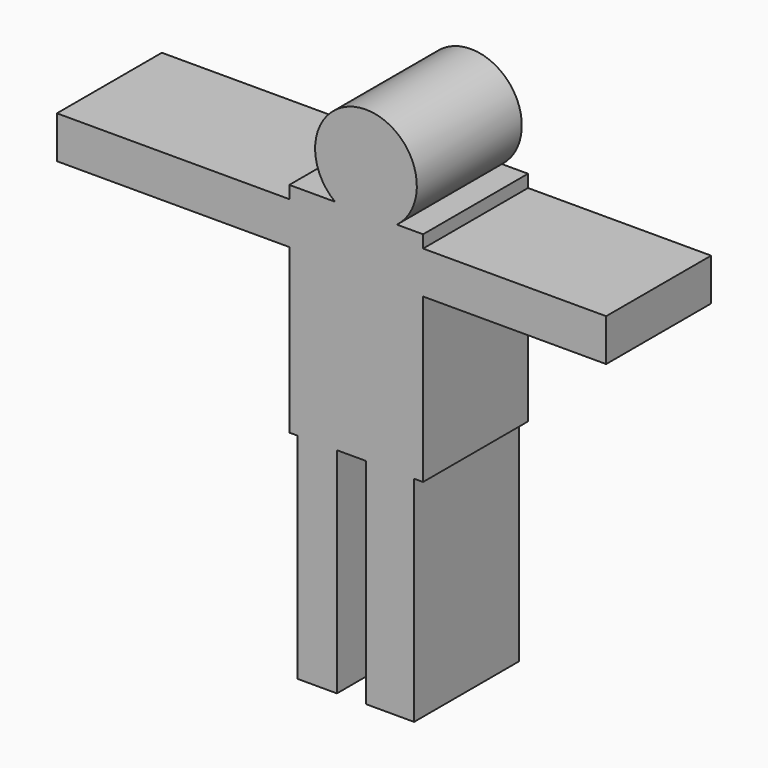
from build123d import *

# Parameters (mm, degrees)
F0_W     = 137.1366620064
F0_H     = 144.6909308434
F0_W_2   = 660.2027177811
F0_W_3   = 43.0994033813
F0_W_4   = 58.4920793772
F0_W_5   = 204.1623681784
F0_W_6   = 165.0523245335
F0_H_2   = 734.502145648
F0_W_7   = 135.4553550482
F0_W_8   = 423.8577842712
F0_H_3   = 40.0208905339
F1_DEPTH = 450


with BuildPart() as f1:
    # F0 (on Front) → F1 (new body)
    with BuildSketch(Plane.XZ):
        with Locations((-331.4316689968, 520.918160677)):
            Rectangle(F0_W, F0_H)
        with Locations((-730.1013588905, 520.918160677)):
            Rectangle(F0_W_2, F0_H)
        with Locations((-241.3136363029, 520.918160677)):
            Rectangle(F0_W_3, F0_H)
        with BuildLine():
            Line((165.0523245335, -71.6988891363), (165.0523245335, -111.7197796702))
            Line((165.0523245335, -111.7197796702), (195.8376318216, -111.7197796702))
            Line((195.8376318216, -111.7197796702), (195.8376318216, 448.5726952553))
            Line((195.8376318216, 448.5726952553), (137.3455524445, 448.5726952553))
            Line((137.3455524445, 448.5726952553), (137.3455524445, 593.2636260986))
            Line((137.3455524445, 593.2636260986), (195.8376318216, 593.2636260986))
            Line((195.8376318216, 593.2636260986), (195.8376318216, 636.36302948))
            Line((195.8376318216, 636.36302948), (106.1371566971, 636.36302948))
            ThreePointArc((106.1371566971, 636.36302948), (0, 600.3783273983), (-106.1371566971, 636.36302948))
            Line((-106.1371566971, 636.36302948), (-262.8633379936, 636.36302948))
            Line((-262.8633379936, 636.36302948), (-262.8633379936, 593.2636260986))
            Line((-262.8633379936, 593.2636260986), (-219.7639346123, 593.2636260986))
            Line((-219.7639346123, 593.2636260986), (-219.7639346123, 448.5726952553))
            Line((-219.7639346123, 448.5726952553), (-262.8633379936, 448.5726952553))
            Line((-262.8633379936, 448.5726952553), (-262.8633379936, -111.7197796702))
            Line((-262.8633379936, -111.7197796702), (-235.1566106081, -111.7197796702))
            Line((-235.1566106081, -111.7197796702), (-235.1566106081, -71.6988891363))
            Line((-235.1566106081, -71.6988891363), (-99.7012555599, -71.6988891363))
            Line((-99.7012555599, -71.6988891363), (-99.7012555599, -111.7197796702))
            Line((-99.7012555599, -111.7197796702), (0, -111.7197796702))
            Line((0, -111.7197796702), (0, -71.6988891363))
            Line((0, -71.6988891363), (165.0523245335, -71.6988891363))
        make_face()
        with BuildLine():
            Line((-106.1371566971, 636.36302948), (106.1371566971, 636.36302948))
            ThreePointArc((106.1371566971, 636.36302948), (156.4922028706, 697.6510919216), (174.5185327244, 774.8968601227))
            ThreePointArc((174.5185327244, 774.8968601227), (-77.2457682011, 931.3890629933), (-106.1371566971, 636.36302948))
        make_face()
        with Locations((166.591592133, 520.918160677)):
            Rectangle(F0_W_4, F0_H)
        with Locations((297.9188159108, 520.918160677)):
            Rectangle(F0_W_5, F0_H)
        with Locations((82.5261622667, -478.9708524942)):
            Rectangle(F0_W_6, F0_H_2)
        with Locations((-167.428933084, -478.9708524942)):
            Rectangle(F0_W_7, F0_H_2)
        with Locations((611.9288921356, 520.918160677)):
            Rectangle(F0_W_8, F0_H)
        with BuildLine():
            ThreePointArc((-106.1371566971, 636.36302948), (0, 600.3783273983), (106.1371566971, 636.36302948))
            Line((106.1371566971, 636.36302948), (-106.1371566971, 636.36302948))
        make_face()
        with Locations((82.5261622667, -91.7093344033)):
            Rectangle(F0_W_6, F0_H_3)
        with Locations((-167.428933084, -91.7093344033)):
            Rectangle(F0_W_7, F0_H_3)
    extrude(amount=F1_DEPTH)


solid = f1.part
